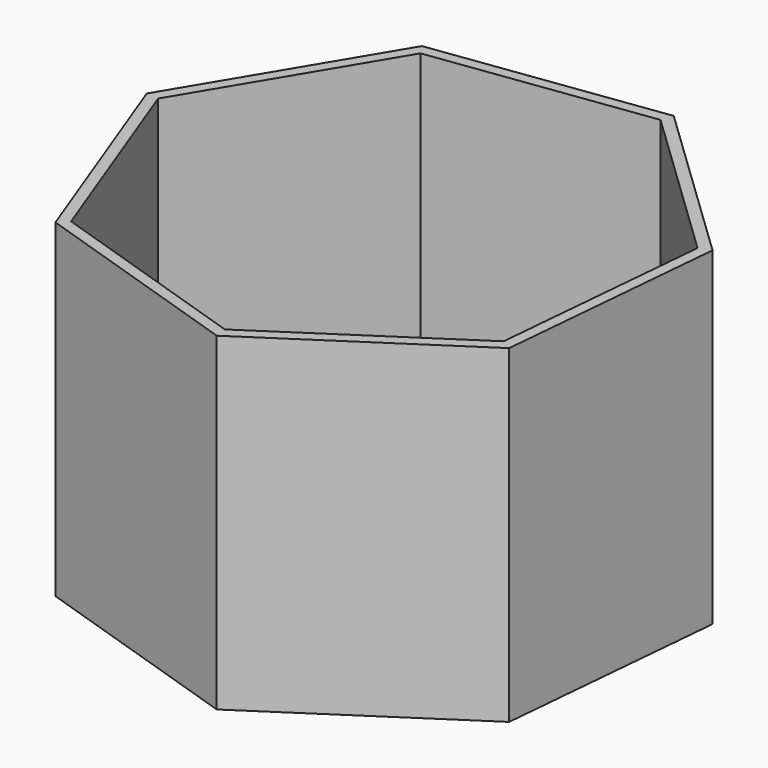
from build123d import *

# Parameters (mm, degrees)
F1_DEPTH = 75.184
F2_T     = -101.6
F3_T     = -2.54


with BuildPart() as f1:
    # F0 (on Top) → F1 (new body)
    with BuildSketch(Plane.XY):
        Polygon((13.405336, 66.941666), (-38.520241, 59.935433), (-65.417615, 14.970067), (-47.032514, -34.094594), (2.790705, -50.311859), (46.534143, -21.469797), (51.258098, 30.712931), align=None)
    extrude(amount=F1_DEPTH)

    # F2
    f2_openings = [f1.faces().sort_by_distance(p)[0] for p in [
        (-5.283155, 9.526264, 75.184),
    ]]
    offset(amount=F2_T, openings=f2_openings)

    # F3
    f3_openings = [f1.faces().sort_by_distance(p)[0] for p in [
        (-5.283155, 9.526264, 75.184),
    ]]
    offset(amount=F3_T, openings=f3_openings)


solid = f1.part
